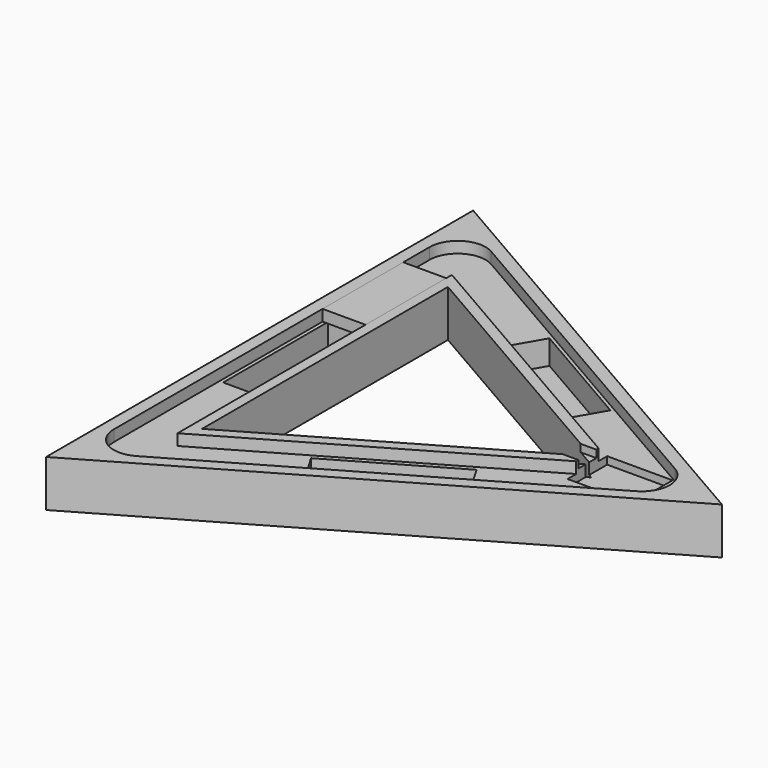
from build123d import *

# Parameters (mm, degrees)
BOX005_W               = 23
BOX005_H               = 54
BOX005_DEPTH           = 6
PRISM003_DEPTH         = 6
PRISM002_DEPTH         = 6
BOX004_W               = 10
BOX004_H               = 12
BOX004_DEPTH           = 4
BOX003_W               = 35
BOX003_H               = 26.5
BOX003_DEPTH           = 10
BOX002_W               = 70
BOX002_H               = 19
BOX002_DEPTH           = 19
BOX002_PLACEMENT_ANGLE = 30
BOX001_W               = 70
BOX001_H               = 19
BOX001_DEPTH           = 19
BOX001_PLACEMENT_ANGLE = 90
BOX_W                  = 70
BOX_H                  = 19
BOX_DEPTH              = 19
BOX_PLACEMENT_ANGLE    = 30
PRISM001_DEPTH         = 25
PRISM_DEPTH            = 25
FILLET_R               = 15


with BuildPart() as box005:
    # Box005 → Box005 (new body)
    with BuildSketch(Plane(origin=(-76, 34, 13), x_dir=(1, 0, 0), z_dir=(0, 0, 1))):
        with Locations((11.5, 27)):
            Rectangle(BOX005_W, BOX005_H)
    extrude(amount=BOX005_DEPTH)


with BuildPart() as prism003:
    # Prism003 → Prism003 (new body)
    with BuildSketch(Plane.XY.offset(13)):
        Polygon((106, 0), (-53, 91.798693), (-53, -91.798693), align=None)
    extrude(amount=PRISM003_DEPTH)


with BuildPart() as cut006:
    # Prism002 → Prism002 (new body)
    with BuildSketch(Plane.XY.offset(13)):
        Polygon((152, 0), (-76, 131.635861), (-76, -131.635861), align=None)
    extrude(amount=PRISM002_DEPTH)

    # Cut006: cut Prism003
    add(prism003.part, mode=Mode.SUBTRACT)


with BuildPart() as box004:
    # Box004 → Box004 (new body)
    with BuildSketch(Plane(origin=(84, -6, 15), x_dir=(1, 0, 0), z_dir=(0, 0, 1))):
        with Locations((5, 6)):
            Rectangle(BOX004_W, BOX004_H)
    extrude(amount=BOX004_DEPTH)


with BuildPart() as box003:
    # Box003 → Box003 (new body)
    with BuildSketch(Plane(origin=(93, -13.3, 9), x_dir=(1, 0, 0), z_dir=(0, 0, 1))):
        with Locations((17.5, 13.25)):
            Rectangle(BOX003_W, BOX003_H)
    extrude(amount=BOX003_DEPTH)


with BuildPart() as box002:
    # Box002 → Box002 (new body)
    with BuildSketch(Plane.XY):
        with Locations((35, 9.5)):
            Rectangle(BOX002_W, BOX002_H)
    extrude(amount=BOX002_DEPTH)


with BuildPart() as box002_1:
    # Box002 placement: moved
    add(box002.part.moved(Location((7, -82, 0))).rotate(Axis((7, -82, 0), (0, 0, 1)), BOX002_PLACEMENT_ANGLE))


with BuildPart() as box001:
    # Box001 → Box001 (new body)
    with BuildSketch(Plane.XY):
        with Locations((35, 9.5)):
            Rectangle(BOX001_W, BOX001_H)
    extrude(amount=BOX001_DEPTH)


with BuildPart() as box001_1:
    # Box001 placement: moved
    add(box001.part.moved(Location((-55, -35, 0))).rotate(Axis((-55, -35, 0), (0, 0, 1)), BOX001_PLACEMENT_ANGLE))


with BuildPart() as box:
    # Box → Box (new body)
    with BuildSketch(Plane.XY):
        with Locations((35, 9.5)):
            Rectangle(BOX_W, BOX_H)
    extrude(amount=BOX_DEPTH)


with BuildPart() as box_1:
    # Box placement: moved
    add(box.part.moved(Location((-2, 65, 0))).rotate(Axis((-2, 65, 0), (0, 0, -1)), BOX_PLACEMENT_ANGLE))


with BuildPart() as prism001:
    # Prism001 → Prism001 (new body)
    with BuildSketch(Plane.XY.offset(-6)):
        Polygon((95, 0), (-47.5, 82.272413), (-47.5, -82.272413), align=None)
    extrude(amount=PRISM001_DEPTH)


with BuildPart() as fillet_body:
    # Prism → Prism (new body)
    with BuildSketch(Plane.XY.offset(-6)):
        Polygon((165, 0), (-82.5, 142.894192), (-82.5, -142.894192), align=None)
    extrude(amount=PRISM_DEPTH)

    # Cut: cut Prism001
    add(prism001.part, mode=Mode.SUBTRACT)

    # Cut001: cut Box
    add(box_1.part, mode=Mode.SUBTRACT)

    # Cut002: cut Box001
    add(box001_1.part, mode=Mode.SUBTRACT)

    # Cut003: cut Box002
    add(box002_1.part, mode=Mode.SUBTRACT)

    # Cut004: cut Box003
    add(box003.part, mode=Mode.SUBTRACT)

    # Cut005: cut Box004
    add(box004.part, mode=Mode.SUBTRACT)

    # Cut007: cut Cut006
    add(cut006.part, mode=Mode.SUBTRACT)

    # Fillet
    fillet_edges = [fillet_body.edges().sort_by_distance(p)[0] for p in [
        (152, 0, 16),
        (-76, 131.635861, 16),
        (-76, -131.635861, 16),
    ]]
    fillet(fillet_edges, radius=FILLET_R)


solid = Compound([box005.part, fillet_body.part])
